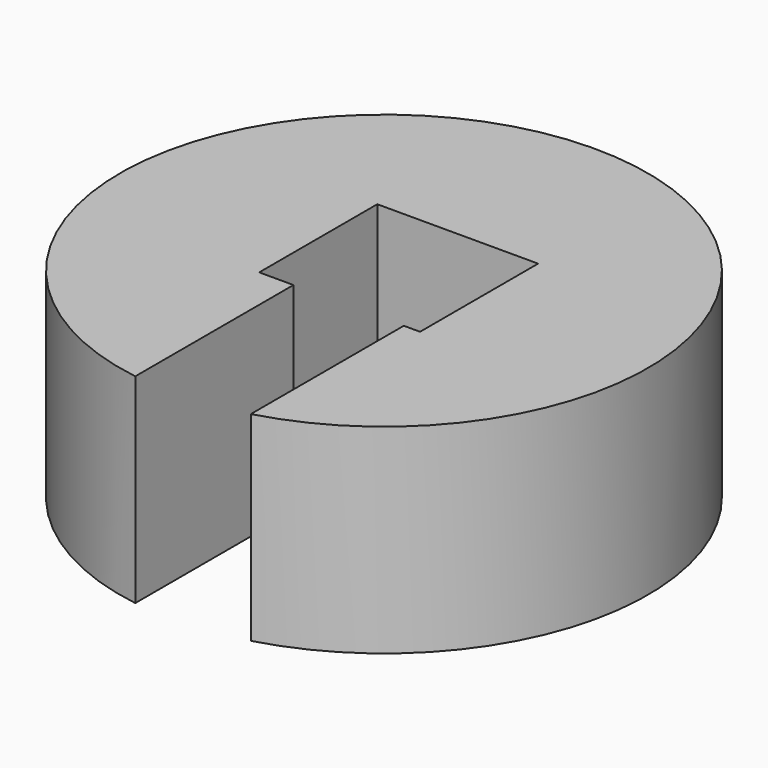
from build123d import *

# Parameters (mm, degrees)
F0_R     = 33.573471
F1_DEPTH = 25.4
F2_W     = 30.792393
F2_H     = 28.740146
F3_DEPTH = 25.4
F5_W     = 20.462201
F5_H     = 18.77485
F6_DEPTH = 25.4
F7_W     = 14.035523
F7_H     = 30.486682
F8_DEPTH = 25.4


with BuildPart() as f1:
    # F0 (on Top) → F1 (new body)
    with BuildSketch(Plane.XY):
        with Locations((0, 33.573471)):
            Circle(F0_R)
    extrude(amount=F1_DEPTH)

    # F5 (on face) → F6 (cut)
    with BuildSketch(Plane.XY.offset(25.4)):
        with Locations((0.784219, 34.929999)):
            Rectangle(F5_W, F5_H)
    extrude(amount=-F6_DEPTH, mode=Mode.SUBTRACT)

    # F7 (on face) → F8 (cut)
    with BuildSketch(Plane.XY.offset(25.4)):
        with Locations((1.928251, 10.299233)):
            Rectangle(F7_W, F7_H)
        with Locations((1.928251, 10.299233)):
            Rectangle(F7_W, F7_H)
    extrude(amount=-F8_DEPTH, mode=Mode.SUBTRACT)


with BuildPart() as f3:
    # F2 (on Top) → F3 (new body)
    with BuildSketch(Plane.XY):
        with Locations((-49.557659, -41.295018)):
            Rectangle(F2_W, F2_H)
    extrude(amount=F3_DEPTH)


solid = f1.part
